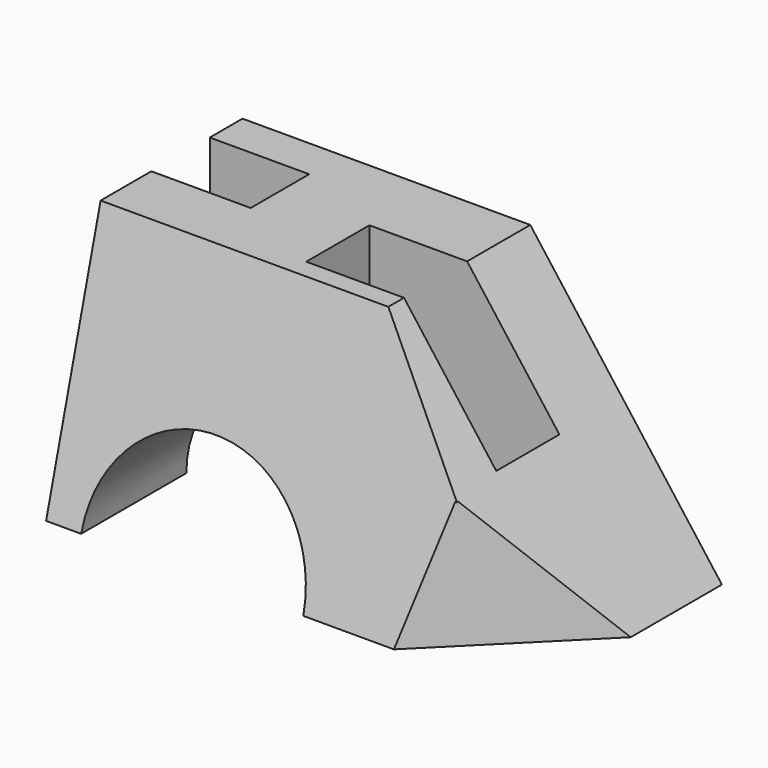
from build123d import *

# Parameters (mm, degrees)
F1_DEPTH      = 84
F2_W          = 31.5592023589
F2_H          = 27
F2_W_2        = 33.4407976411
F2_W_3        = 34
F2_H_2        = 25
F3_DEPTH      = 187.4
F5_DEPTH      = 299
F5_DEPTH_BACK = 323
F7_DEPTH      = 75.8


with BuildPart() as f1:
    # F0 (on Front) → F1 (new body)
    with BuildSketch(Plane.XZ):
        with BuildLine():
            Line((82, -43.5), (16.4407976411, 43.5))
            Line((16.4407976411, 43.5), (0, 43.5))
            Line((0, 43.5), (-82, 43.5))
            Line((-82, 43.5), (-82, -43.5))
            Line((-82, -43.5), (-70, -43.5))
            ThreePointArc((-70, -43.5), (-32, -5.5), (6, -43.5))
            Line((6, -43.5), (82, -43.5))
        make_face()
    extrude(amount=F1_DEPTH)

    # F2 (on face) → F3 (cut)
    with BuildSketch(Plane.XY.offset(43.5)):
        with Locations((32.2203988205, -40.5)):
            Rectangle(F2_W, F2_H)
        with Locations((-0.2796011795, -40.5)):
            Rectangle(F2_W_2, F2_H)
        with Locations((-65, -26.5)):
            Rectangle(F2_W_3, F2_H_2)
    extrude(amount=-F3_DEPTH, mode=Mode.SUBTRACT)

    # F4 (on Right) → F5 (cut, two sides)
    with BuildSketch(Plane.YZ) as f5_sk:
        Polygon((-84, -43.5), (-60.6884202585, 43.5), (-84, 43.5), align=None)
    extrude(amount=F5_DEPTH, mode=Mode.SUBTRACT)
    extrude(f5_sk.sketch, amount=-F5_DEPTH_BACK, mode=Mode.SUBTRACT)

    # F6 (on Top) → F7 (cut)
    with BuildSketch(Plane.XY):
        Polygon((82, -84), (48.8038917131, -72.1961082869), (37, -84), align=None)
        Polygon((82, -39), (48.8038917131, -72.1961082869), (82, -84), align=None)
    extrude(amount=-F7_DEPTH, mode=Mode.SUBTRACT)


solid = f1.part
